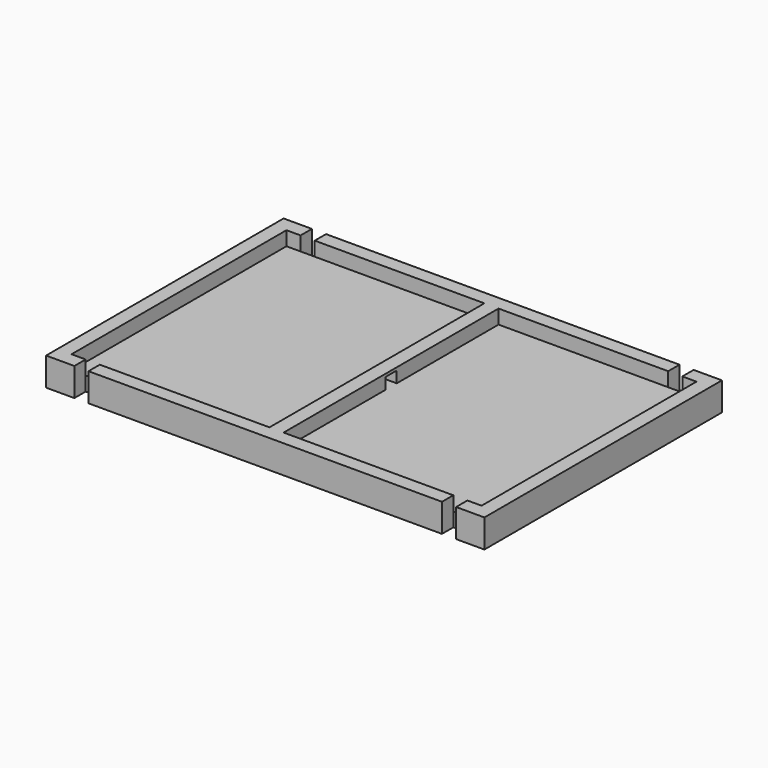
from build123d import *

# Parameters (mm, degrees)
F0_W     = 75
F0_H     = 105
F0_W_2   = 5
F1_DEPTH = 10
F2_T     = -5
F4_DEPTH = 25
F5_DEPTH = 10
F6_W     = 2.5
F6_H     = 4
F7_DEPTH = 25


with BuildPart() as f1:
    # F0 (on Top) → F1 (new body)
    with BuildSketch(Plane.XY):
        with Locations((40, 0)):
            Rectangle(F0_W, F0_H)
        with Locations((-40, 0)):
            Rectangle(F0_W, F0_H)
        Rectangle(F0_W_2, F0_H)
    extrude(amount=F1_DEPTH)

    # F2
    f2_openings = [f1.faces().sort_by_distance(p)[0] for p in [
        (0, 0, 10),
    ]]
    offset(amount=F2_T, openings=f2_openings)

    # F3 (on Top) → F4 (intersect)
    with BuildSketch(Plane.XY):
        Polygon((-67.5, 52.5), (-77.5, 52.5), (-77.5, -52.5), (-67.5, -52.5), (-67.5, -47.5), (-62.5, -47.5), (-62.5, -52.5), (62.5, -52.5), (62.5, -47.5), (67.5, -47.5), (67.5, -52.5), (77.5, -52.5), (77.5, 52.5), (67.5, 52.5), (67.5, 47.5), (62.5, 47.5), (62.5, 52.5), (-62.5, 52.5), (-62.5, 47.5), (-67.5, 47.5), align=None)
    extrude(amount=F4_DEPTH, mode=Mode.INTERSECT)

    # F0 (on Top) → F5 (join)
    with BuildSketch(Plane.XY):
        Rectangle(F0_W_2, F0_H)
    extrude(amount=F5_DEPTH)

    # F6 (on face) → F7 (cut)
    with BuildSketch(Plane(origin=(-2.5, 0, 0), x_dir=(0, -1, 0), z_dir=(-1, 0, 0))):
        with Locations((-1.25, 7)):
            Rectangle(F6_W, F6_H)
        with Locations((1.25, 7)):
            Rectangle(F6_W, F6_H)
    extrude(amount=-F7_DEPTH, mode=Mode.SUBTRACT)


solid = f1.part
